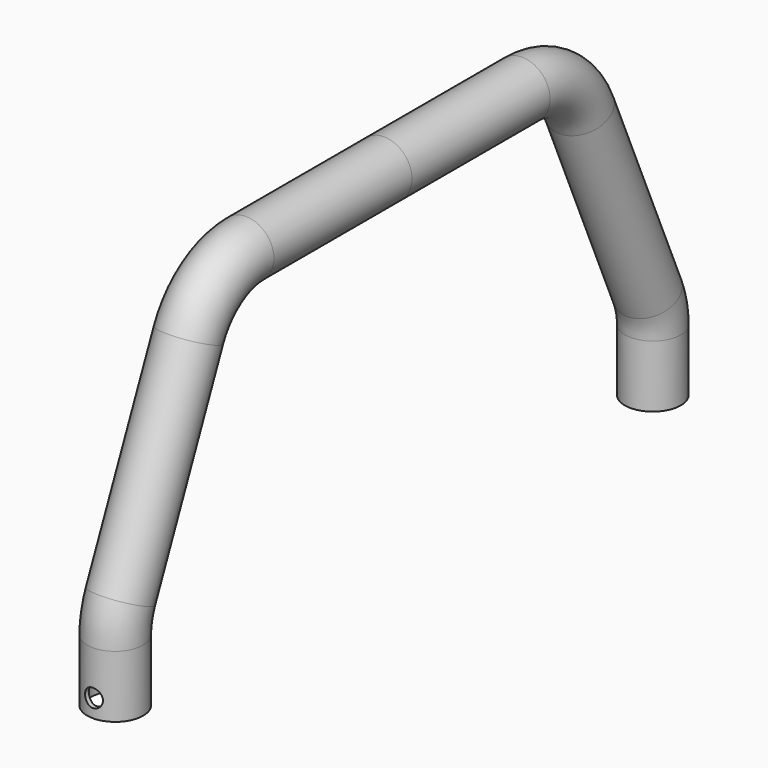
from build123d import *

# Parameters (mm, degrees)
F1_R     = 12.5
F1_R_2   = 10.5
F4_R     = 4
F5_DEPTH = 12.5010001


with BuildPart() as f2:
    # F2: sweep along a path in F0
    with BuildLine(Plane.YZ) as f2_path:
        Line((0, 150), (-77.0523680748, 150))
        ThreePointArc((-77.0523680748, 150), (-96.2429974746, 144.269775251), (-109.1498200437, 128.9554138995))
        Line((-109.1498200437, 128.9554138995), (-147.0974519689, 41.6758604716))
        ThreePointArc((-147.0974519689, 41.6758604716), (-149.2666807476, 34.8474789521), (-150, 27.7204465721))
        Line((-150, 27.7204465721), (-150, 0))
    # F1 (on Top) → F2 (sweep)
    with BuildSketch(Plane.XY):
        with Locations((0, -150)):
            Circle(F1_R)
        with Locations((0, -150)):
            Circle(F1_R_2, mode=Mode.SUBTRACT)
    sweep(path=f2_path.line)

    # F4 (on plane+point) → F5 (cut, through all)
    with BuildSketch(Plane.XZ.offset(150)):
        with Locations((0, 8)):
            Circle(F4_R)
    extrude(amount=F5_DEPTH, mode=Mode.SUBTRACT)

    # F6: F2 across plane


with BuildPart() as f2_1:
    add(f2.part)
    add(f2.part.mirror(Plane.XZ))


solid = f2_1.part
